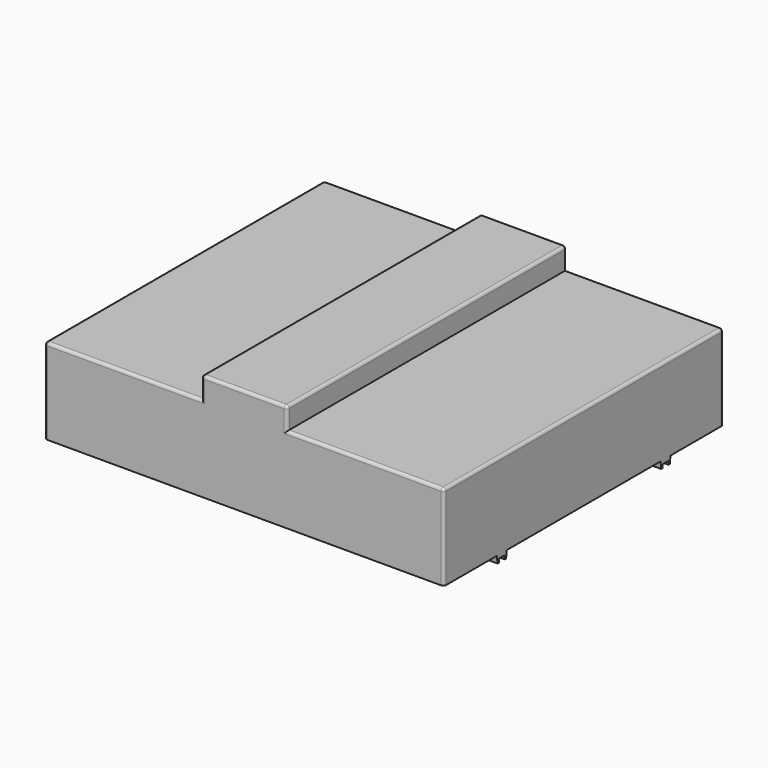
from build123d import *

# Parameters (mm, degrees)
F1_DEPTH = 622.3
F2_R     = 10.16
F4_DEPTH = 1422.4
F5_R     = 6.35
F6_DEPTH = 76.2


with BuildPart() as f1:
    # F0 (on Front) → F1 (new body, symmetric)
    with BuildSketch(Plane.XZ):
        Polygon((711.2, -152.4), (711.2, 152.4), (152.4, 152.4), (152.4, 75.2325318336), (-152.4, 75.2325318336), (-152.4, 152.4), (-711.2, 152.4), (-711.2, -152.4), align=None)
        Polygon((152.4, 75.2325318336), (152.4, 152.4), (152.4, 229.5674681664), (-152.4, 229.5674681664), (-152.4, 152.4), (-152.4, 75.2325318336), align=None)
    extrude(amount=F1_DEPTH, both=True)

    # F2
    f2_edges = [f1.edges().sort_by_distance(p)[0] for p in [
        (711.2, 0, 152.4),
        (431.8, -622.3, 152.4),
        (711.2, -622.3, 0),
        (431.8, 622.3, 152.4),
        (711.2, 622.3, 0),
        (0, 622.3, 229.567468),
        (152.4, 622.3, 190.983734),
        (152.4, 0, 229.567468),
        (-152.4, 622.3, 190.983734),
        (-152.4, 0, 229.567468),
        (-431.8, 622.3, 152.4),
        (-711.2, 622.3, 0),
        (-711.2, 0, 152.4),
        (-711.2, -622.3, 0),
        (-431.8, -622.3, 152.4),
        (-152.4, -622.3, 190.983734),
        (0, -622.3, 229.567468),
        (152.4, -622.3, 190.983734),
    ]]
    fillet(f2_edges, radius=F2_R)

    # F3 (on face) → F4 (join)
    with BuildSketch(Plane.YZ.offset(711.2)):
        Polygon((-342.265, -152.4), (-386.715, -152.4), (-383.54, -177.8), (-377.5456, -177.8), (-377.5456, -165.1), (-351.4344, -165.1), (-351.4344, -177.8), (-345.44, -177.8), align=None)
        Polygon((386.715, -152.3999997139), (342.265, -152.3999997139), (345.44, -177.7999997139), (351.4344, -177.7999997139), (351.4344, -165.0999997139), (377.5456, -165.0999997139), (377.5456, -177.7999997139), (383.54, -177.7999997139), align=None)
    extrude(amount=-F4_DEPTH)

    # F5 (on face) → F6 (join)
    with BuildSketch(Plane(origin=(0, 0, -165.1), x_dir=(1, 0, 0), z_dir=(0, 0, -1))):
        with Locations((457.2, 364.49)):
            Circle(F5_R)
        with Locations((-457.2, 364.49)):
            Circle(F5_R)
    extrude(amount=F6_DEPTH)


solid = f1.part
